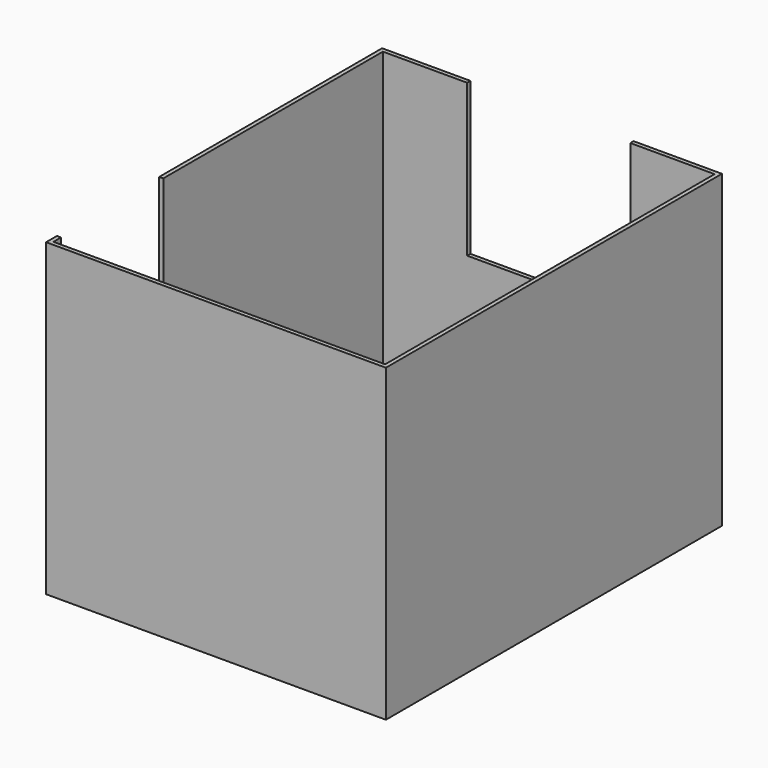
from build123d import *

# Parameters (mm, degrees)
F1_DEPTH = 2250
F2_W     = 2500
F2_H     = 3090
F3_DEPTH = 30
F4_W     = 1200
F4_H     = 1120
F5_DEPTH = 30


with BuildPart() as f1:
    # F0 (on Top) → F1 (new body)
    with BuildSketch(Plane.XY):
        Polygon((0, 1010), (0, 3030), (2440, 3030), (2440, 0), (0, 0), (0, 70), (-30, 70), (-30, -30), (2470, -30), (2470, 3060), (-30, 3060), (-30, 1010), align=None)
    extrude(amount=F1_DEPTH)

    # F2 (on Top) → F3 (join)
    with BuildSketch(Plane.XY):
        with Locations((1220, 1515)):
            Rectangle(F2_W, F2_H)
    extrude(amount=-F3_DEPTH)

    # F4 (on face) → F5 (cut, through all)
    with BuildSketch(Plane.XZ.offset(-3030)):
        with Locations((1220, 1690)):
            Rectangle(F4_W, F4_H)
    extrude(amount=-F5_DEPTH, mode=Mode.SUBTRACT)


solid = f1.part
